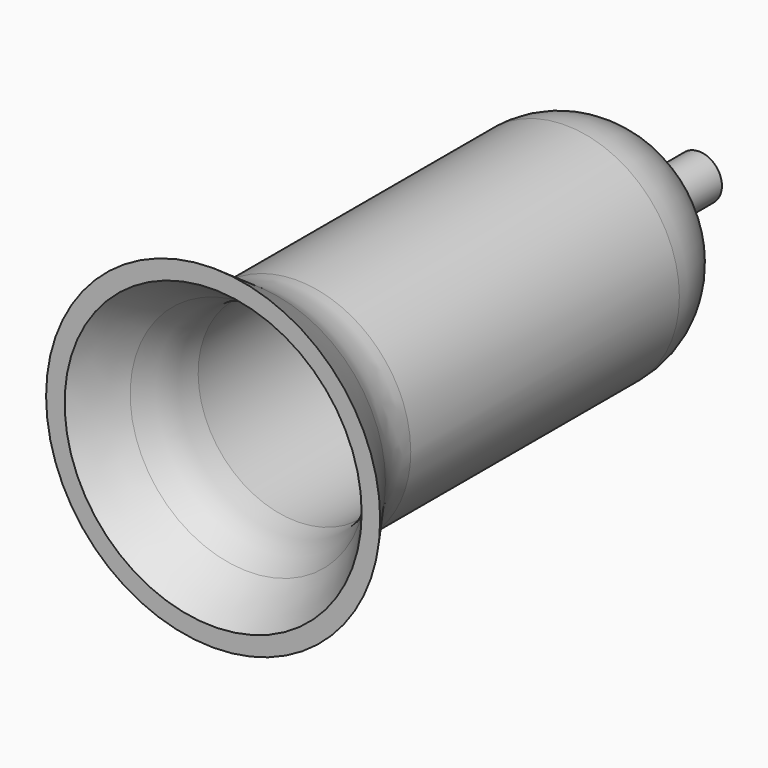
from build123d import *

# Parameters (mm, degrees)
F0_R     = 13.97
F2_R     = 9.525
F4_DEPTH = 38.1
F5_R     = 7.62
F6_R     = 7.62
F7_DEPTH = 6.35
F8_T     = -1.27


with BuildPart() as f3:
    # F0 (on Front) → F3 section 0
    with BuildSketch(Plane.XZ):
        Circle(F0_R)
    # F2 (on offset) → F3 section 1
    with BuildSketch(Plane.XZ.offset(-6.35)):
        Circle(F2_R)
    loft()

    # F2 (on offset) → F4 (join)
    with BuildSketch(Plane.XZ.offset(-6.35)):
        Circle(F2_R)
    extrude(amount=-F4_DEPTH)

    # F5
    f5_edges = [f3.edges().sort_by_distance(p)[0] for p in [
        (-9.525, 6.35, 0),
    ]]
    fillet(f5_edges, radius=F5_R)

    # F6
    f6_edges = [f3.edges().sort_by_distance(p)[0] for p in [
        (-9.525, 44.45, 0),
    ]]
    fillet(f6_edges, radius=F6_R)


with BuildPart() as f7:
    # F7 (new): a face of the model
    f7_faces = [f3.part.faces().sort_by_distance(p)[0] for p in [
        (0, 44.45, 0),
    ]]
    extrude(f7_faces, amount=F7_DEPTH)


with BuildPart() as f3_1:
    add(f3.part)

    # F8
    f8_openings = [f3_1.faces().sort_by_distance(p)[0] for p in [
        (0, 0, 0),
    ]]
    offset(amount=F8_T, openings=f8_openings, kind=Kind.INTERSECTION)


solid = Compound([f7.part, f3_1.part])
